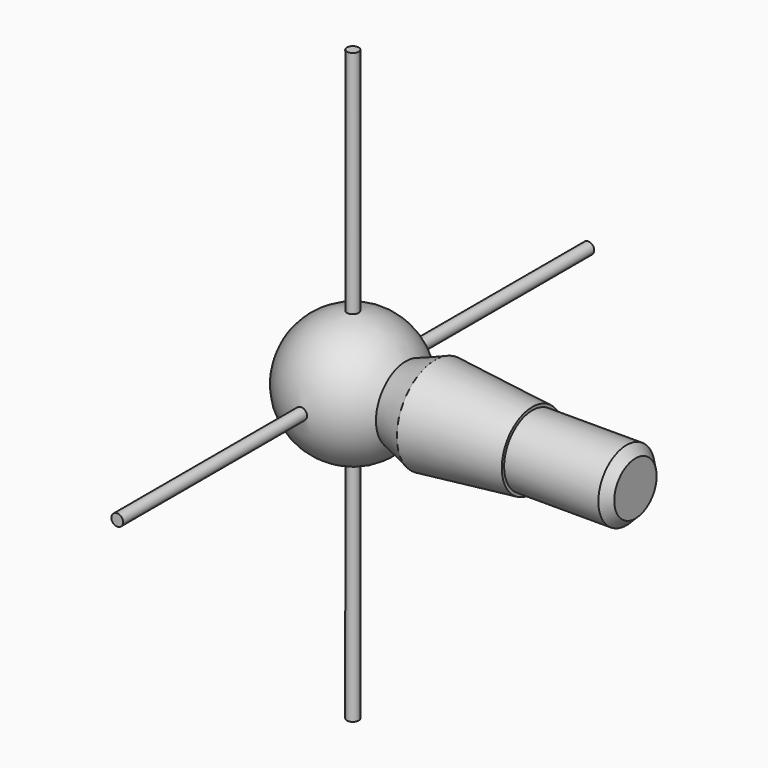
from build123d import *

# Parameters (mm, degrees)
F2_SIZE  = 1.5
F3_R     = 1
F4_DEPTH = 50
F5_R     = 1
F6_DEPTH = 50


with BuildPart() as f1:
    # F0 (on Front) → F1 (revolve)
    with BuildSketch(Plane.XZ):
        with BuildLine():
            ThreePointArc((8.9969651904, 6.328871729), (-3.3191401677, 10.4872927177), (-11, 0))
            Line((-11, 0), (48, 0))
            Line((48, 0), (48, 6))
            Line((48, 6), (30.5, 6))
            Line((30.5, 6), (30.5, 6.5))
            Line((30.5, 6.5), (14, 8.1498274807))
            Line((14, 8.1498274807), (8.9969651904, 6.328871729))
        make_face()
    revolve(axis=Axis((18.5, 0, 0), (-1, 0, 0)))

    # F2
    f2_edges = [f1.edges().sort_by_distance(p)[0] for p in [
        (48, 0, -6),
    ]]
    chamfer(f2_edges, length=F2_SIZE)

    # F3 (on Front) → F4 (join, symmetric)
    with BuildSketch(Plane.XZ):
        Circle(F3_R)
    extrude(amount=F4_DEPTH, both=True)

    # F5 (on Top) → F6 (join, symmetric)
    with BuildSketch(Plane.XY):
        Circle(F5_R)
    extrude(amount=F6_DEPTH, both=True)


solid = f1.part
